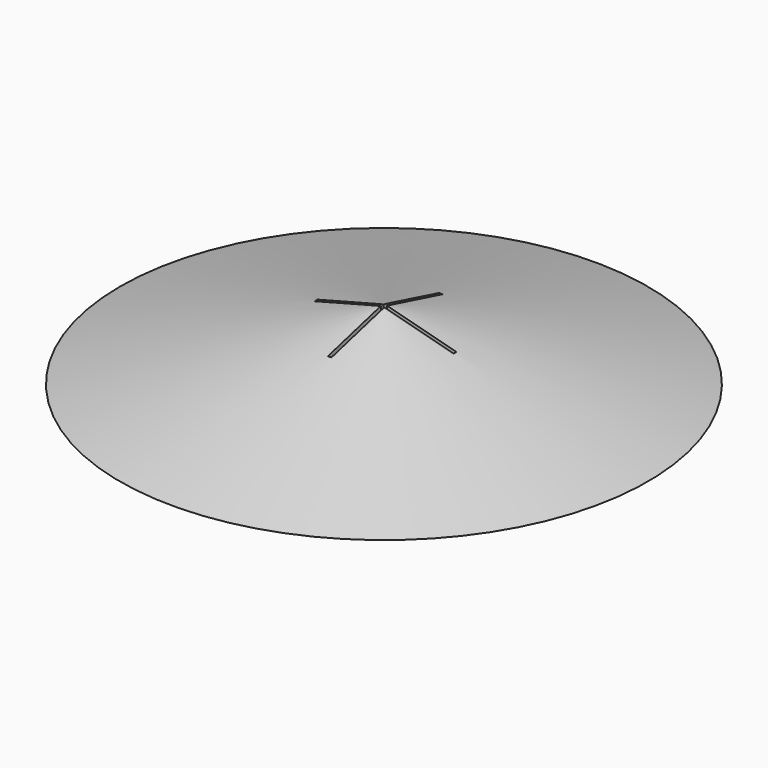
from build123d import *

# Parameters (mm, degrees)
F4_W     = 9.5127796691
F4_H     = 0.5
F4_W_2   = 0.5
F4_H_2   = 9.9936255533
F4_W_3   = 9.9872203309
F4_H_3   = 9.5063744467
F5_DEPTH = 25


with BuildPart() as f2:
    # F1 (on Front) → F2 (revolve)
    with BuildSketch(Plane.XZ):
        Polygon((0, 10), (-37.9932709038, 0), (0, 0), align=None)
    revolve(axis=Axis((0, 0, 0), (0, 0, 1)))

    # F4 (on offset) → F5 (cut)
    with BuildSketch(Plane.XY.offset(10.1)):
        with Locations((-4.9916676883, -0.0203696135)):
            Rectangle(F4_W, F4_H)
        with Locations((0.0147221462, 5.2264431631)):
            Rectangle(F4_W_2, F4_H_2)
        with Locations((0.0147221462, -0.0203696135)):
            Rectangle(F4_W_2, F4_H)
        with Locations((5.2583323117, -0.0203696135)):
            Rectangle(F4_W_3, F4_H)
        with Locations((0.0147221462, -5.0235568369)):
            Rectangle(F4_W_2, F4_H_3)
    extrude(amount=-F5_DEPTH, mode=Mode.SUBTRACT)


solid = f2.part
